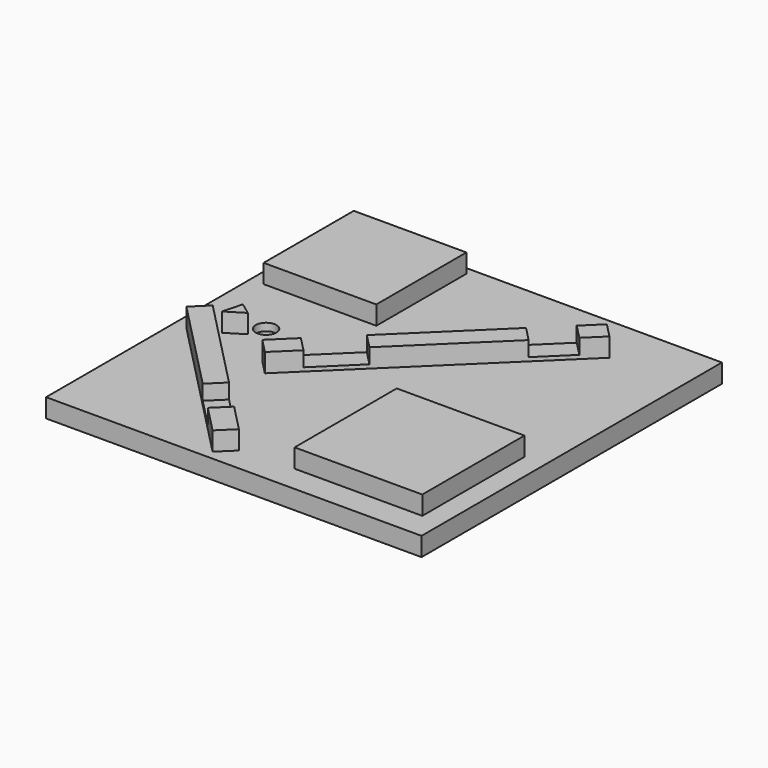
from build123d import *

# Parameters (mm, degrees)
F0_W      = 127
F0_H      = 127
F1_DEPTH  = 6.35
F3_DEPTH  = 6.35
F5_DEPTH  = 5.08
F6_W      = 43.18
F6_H      = 43.18
F7_DEPTH  = 6.35
F9_DEPTH  = 6.35
F11_DEPTH = 5.08
F12_W     = 38.1
F12_H     = 38.1
F13_DEPTH = 6.35
F14_R     = 3.4925
F15_DEPTH = 2.54
F17_DEPTH = 6.35


with BuildPart() as f1:
    # F0 (on Top) → F1 (new body)
    with BuildSketch(Plane.XY):
        with Locations((0.5442854017, -13.0122138653)):
            Rectangle(F0_W, F0_H)
    extrude(amount=F1_DEPTH)

    # F2 (on face) → F3 (join)
    with BuildSketch(Plane.XY.offset(6.35)):
        Polygon((-53.7375879309, -17.5850009601), (-58.7414534923, -22.4585576124), (-9.1197857594, -73.4070069648), (-4.115920198, -68.5334503124), align=None)
    extrude(amount=F3_DEPTH)

    # F4 (on face) → F5 (cut)
    with BuildSketch(Plane.XY.offset(12.7)):
        Polygon((-22.838354329, -49.3104166932), (-27.8422198903, -54.1839733455), (-18.1633084233, -64.1216790535), (-13.1594428619, -59.2481224011), align=None)
    extrude(amount=-F5_DEPTH, mode=Mode.SUBTRACT)

    # F6 (on face) → F7 (join)
    with BuildSketch(Plane.XY.offset(6.35)):
        with Locations((35.4591379873, -45.8693522716)):
            Rectangle(F6_W, F6_H)
    extrude(amount=F7_DEPTH)

    # F8 (on face) → F9 (join)
    with BuildSketch(Plane.XY.offset(6.35)):
        Polygon((34.285597458, 39.0348099981), (-31.2195517093, -24.764477087), (-26.345995057, -29.7683426483), (39.1591541104, 34.0309444367), align=None)
    extrude(amount=F9_DEPTH)

    # F10 (on face) → F11 (cut)
    with BuildSketch(Plane.XY.offset(12.7)):
        Polygon((-11.3444998697, -5.4070043651), (-23.882560582, -17.618553305), (-19.0090039296, -22.6224188664), (-6.4709432174, -10.4108699265), align=None)
        Polygon((28.5604737616, 33.4587779618), (18.924622147, 24.0738598097), (23.7981787993, 19.0699942484), (33.434030414, 28.4549124004), align=None)
    extrude(amount=-F11_DEPTH, mode=Mode.SUBTRACT)

    # F12 (on face) → F13 (join)
    with BuildSketch(Plane.XY.offset(6.35)):
        with Locations((-39.4052062184, 28.9046873478)):
            Rectangle(F12_W, F12_H)
    extrude(amount=F13_DEPTH)

    # F14 (on face) → F15 (cut)
    with BuildSketch(Plane.XY.offset(6.35)):
        with Locations((-41.9958606362, -9.7006224096)):
            Circle(F14_R)
    extrude(amount=-F15_DEPTH, mode=Mode.SUBTRACT)

    # F16 (on face) → F17 (join)
    with BuildSketch(Plane.XY.offset(6.35)):
        Polygon((-43.8297687504, -15.1278137338), (-47.9132530889, -12.1059673352), (-49.6608870253, -18.737553844), align=None)
    extrude(amount=F17_DEPTH)


solid = f1.part
